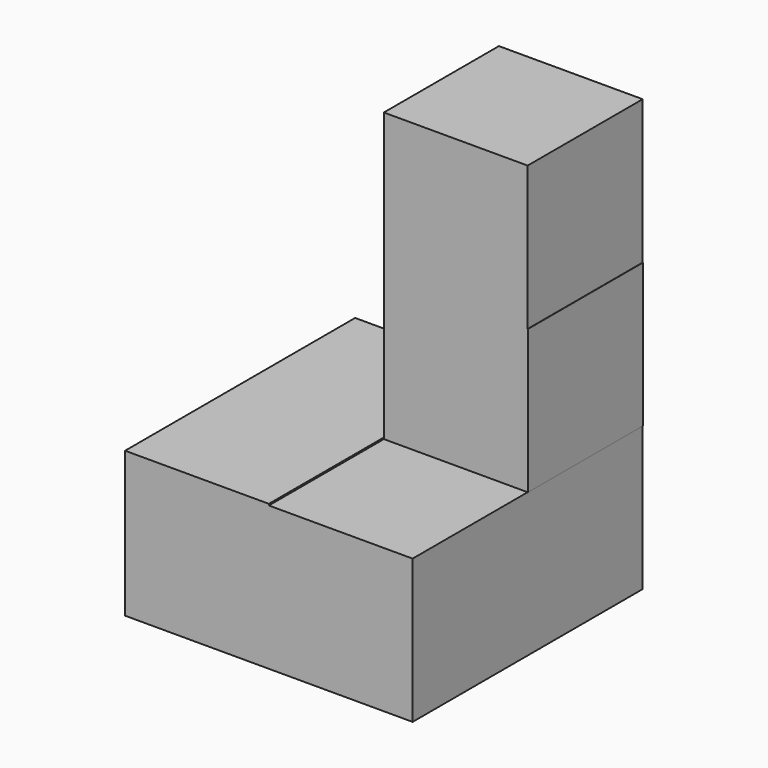
from build123d import *

# Parameters (mm, degrees)
F0_W     = 25.4
F0_H     = 25.4
F1_DEPTH = 50.8
F2_DEPTH = 25.4


with BuildPart() as f1:
    # F0 (on Front) → F1 (new body)
    with BuildSketch(Plane.XZ):
        with Locations((12.7, -38.1)):
            Rectangle(F0_W, F0_H)
        Polygon((0, -25.4), (0, -25.139108), (-25.4, -25.139108), (-25.4, -50.8), (0, -50.8), align=None)
    extrude(amount=F1_DEPTH)

    # F0 (on Front) → F2 (join)
    with BuildSketch(Plane.XZ):
        with Locations((12.7, 12.7)):
            Rectangle(F0_W, F0_H)
        Polygon((25.4, 0), (0, 0), (0, -25.139108), (0, -25.4), (25.4, -25.4), (25.44794, -25.4), (25.44794, 0), align=None)
    extrude(amount=F2_DEPTH)


solid = f1.part
